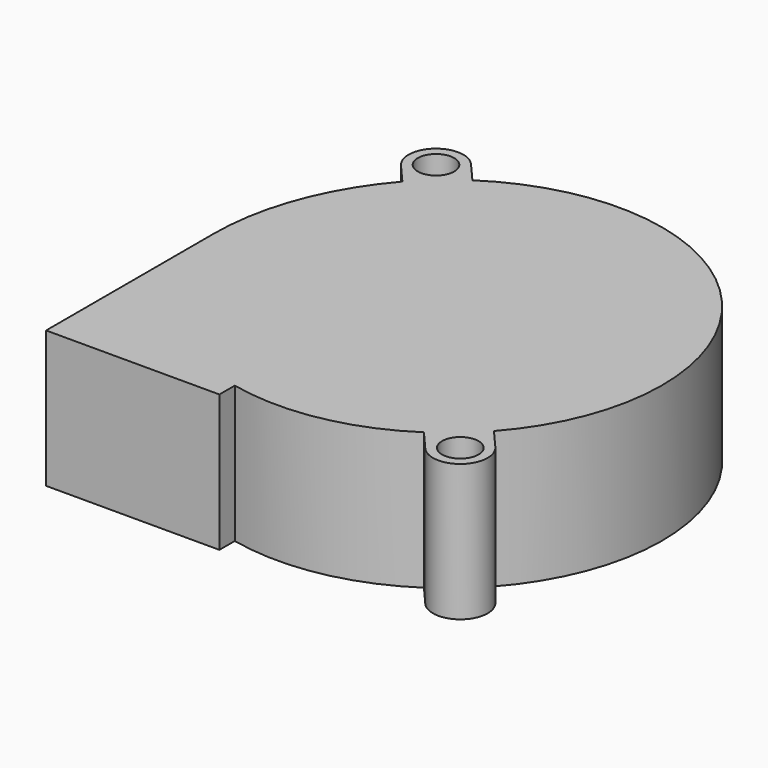
from build123d import *

# Parameters (mm, degrees)
F1_DEPTH = 15
F2_R     = 2
F3_DEPTH = 15


with BuildPart() as f1:
    # F0 (on Top) → F1 (new body)
    with BuildSketch(Plane.XY):
        with BuildLine():
            ThreePointArc((-17.505919, 15.602733), (-22.384854, 7.383485), (-24.08258, -2.022777))
            Line((-24.08258, -2.022777), (-24.08258, -25))
            Line((-24.08258, -25), (-5.08258, -25))
            Line((-5.08258, -25), (-5.08258, -22.892573))
            ThreePointArc((-5.08258, -22.892573), (4.284871, -23.055203), (12.968369, -19.537756))
            Line((12.968369, -19.537756), (14.933569, -21.80447))
            ThreePointArc((14.933569, -21.80447), (19.165482, -22.105984), (19.466996, -17.874071))
            Line((19.466996, -17.874071), (17.501797, -15.607357))
            ThreePointArc((17.501797, -15.607357), (17.716118, 15.363648), (-12.97353, 19.534329))
            Line((-12.97353, 19.534329), (-14.938729, 21.801043))
            ThreePointArc((-14.938729, 21.801043), (-19.170722, 22.10144), (-19.471119, 17.869447))
            Line((-19.471119, 17.869447), (-17.505919, 15.602733))
        make_face()
    extrude(amount=F1_DEPTH)

    # F2 (on face) → F3 (cut, through all)
    with BuildSketch(Plane.XY.offset(15)):
        with Locations((17.200282, -19.83927)):
            Circle(F2_R)
        with Locations((-17.204924, 19.835245)):
            Circle(F2_R)
    extrude(amount=-F3_DEPTH, mode=Mode.SUBTRACT)


solid = f1.part
